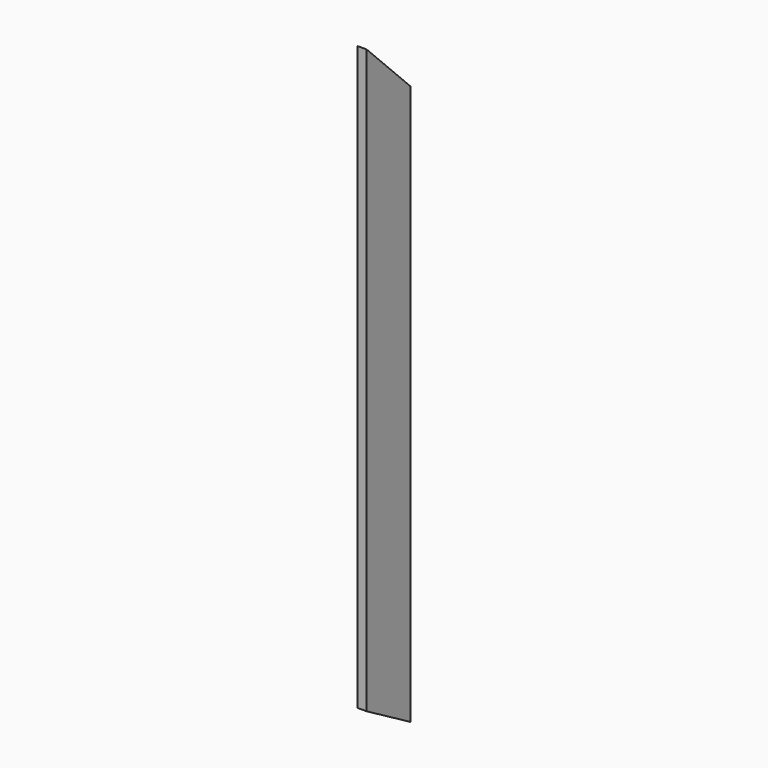
from build123d import *

# Parameters (mm, degrees)
PAD_DEPTH = 6.35


with BuildPart() as part:
    # Sketch → Pad (new body)
    with BuildSketch(Plane.YZ):
        Polygon((0, 0), (0, -406.4), (38.1, -428.397045), (38.1, -38.1), align=None)
    extrude(amount=PAD_DEPTH)


solid = part.part
